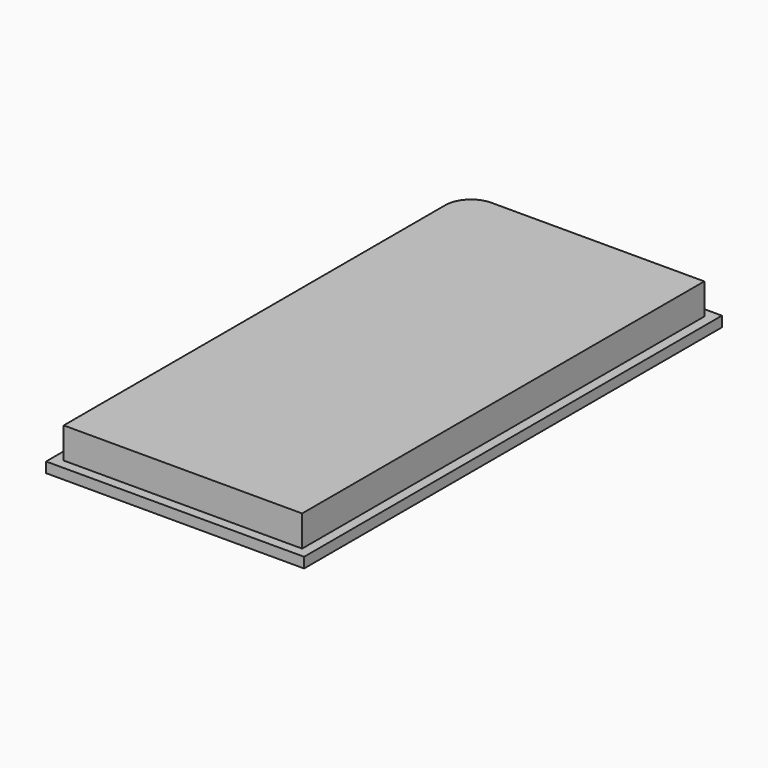
from build123d import *

# Parameters (mm, degrees)
F0_W     = 63.5
F0_H     = 128.524
F0_W_2   = 58.674
F0_H_2   = 123.698
F1_DEPTH = 2.54
F3_DEPTH = 7.62


with BuildPart() as f1:
    # F0 (on Top) → F1 (new body)
    with BuildSketch(Plane.XY):
        Rectangle(F0_W, F0_H)
        Rectangle(F0_W_2, F0_H_2, mode=Mode.SUBTRACT)
        Rectangle(F0_W_2, F0_H_2)
    extrude(amount=F1_DEPTH)

    # F2 (on face) → F3 (join)
    with BuildSketch(Plane.XY.offset(2.54)):
        with BuildLine():
            Line((-29.337, -61.849), (29.337, -61.849))
            Line((29.337, -61.849), (29.337, 61.849))
            Line((29.337, 61.849), (-22.987, 61.849))
            ThreePointArc((-22.987, 61.849), (-27.477128, 59.989128), (-29.337, 55.499))
            Line((-29.337, 55.499), (-29.337, -61.849))
        make_face()
    extrude(amount=F3_DEPTH)


solid = f1.part
